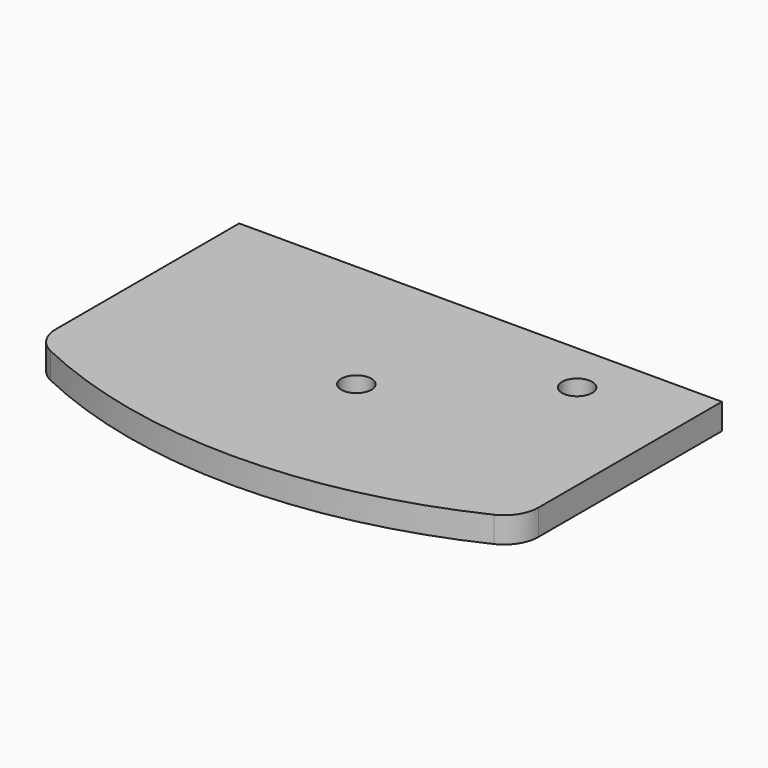
from build123d import *

# Parameters (mm, degrees)
F0_R     = 22.225
F1_DEPTH = 19.05


with BuildPart() as f1:
    # F0 (on Top) → F1 (new body, symmetric)
    with BuildSketch(Plane.XY):
        with BuildLine():
            Line((1270, 0), (558.8, 0))
            Line((558.8, 0), (558.8, -337.774821))
            ThreePointArc((558.8, -337.774821), (566.666164, -364.928563), (587.828571, -383.673022))
            ThreePointArc((587.828571, -383.673022), (914.4, -457.2), (1240.971429, -383.673022))
            ThreePointArc((1240.971429, -383.673022), (1262.133836, -364.928563), (1270, -337.774821))
            Line((1270, -337.774821), (1270, 0))
        make_face()
        with Locations((914.4, -228.6)):
            Circle(F0_R, mode=Mode.SUBTRACT)
        with Locations((1117.6, -76.2)):
            Circle(F0_R, mode=Mode.SUBTRACT)
    extrude(amount=F1_DEPTH, both=True)


solid = f1.part
